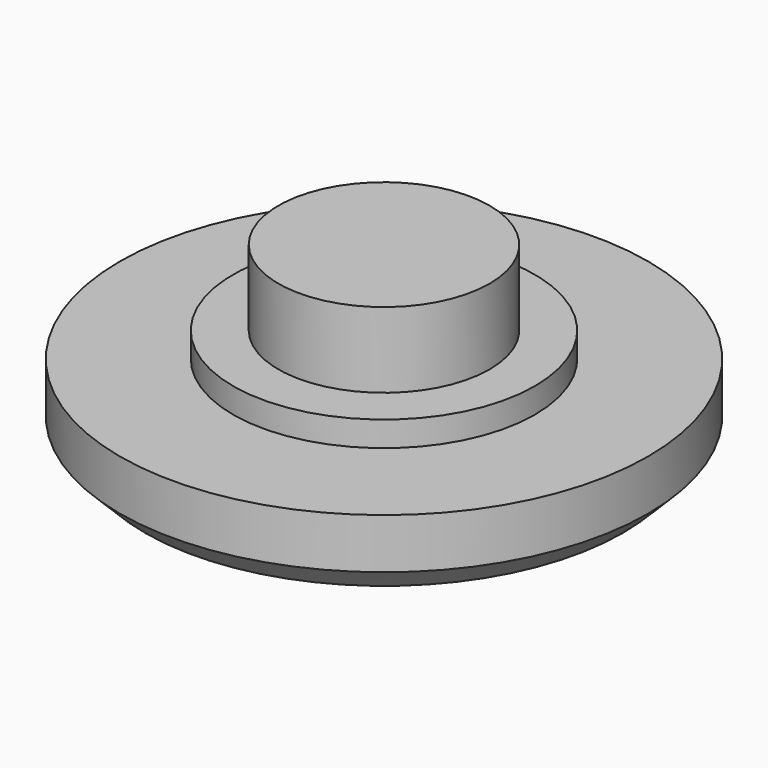
from build123d import *

# Parameters (mm, degrees)
F2_R     = 10.5
F2_R_2   = 6
F3_DEPTH = 3
F2_R_3   = 4.2
F4_DEPTH = 4
F5_DEPTH = 7
F6_SIZE  = 1


with BuildPart() as f3:
    # F2 (on Top) → F3 (new body)
    with BuildSketch(Plane.XY):
        Circle(F2_R)
        Circle(F2_R_2, mode=Mode.SUBTRACT)
    extrude(amount=F3_DEPTH)

    # F2 (on Top) → F4 (join)
    with BuildSketch(Plane.XY):
        Circle(F2_R_2)
        Circle(F2_R_3, mode=Mode.SUBTRACT)
    extrude(amount=F4_DEPTH)

    # F2 (on Top) → F5 (join)
    with BuildSketch(Plane.XY):
        Circle(F2_R_3)
    extrude(amount=F5_DEPTH)

    # F6
    f6_edges = [f3.edges().sort_by_distance(p)[0] for p in [
        (-10.5, 0, 0),
    ]]
    chamfer(f6_edges, length=F6_SIZE)


solid = f3.part
